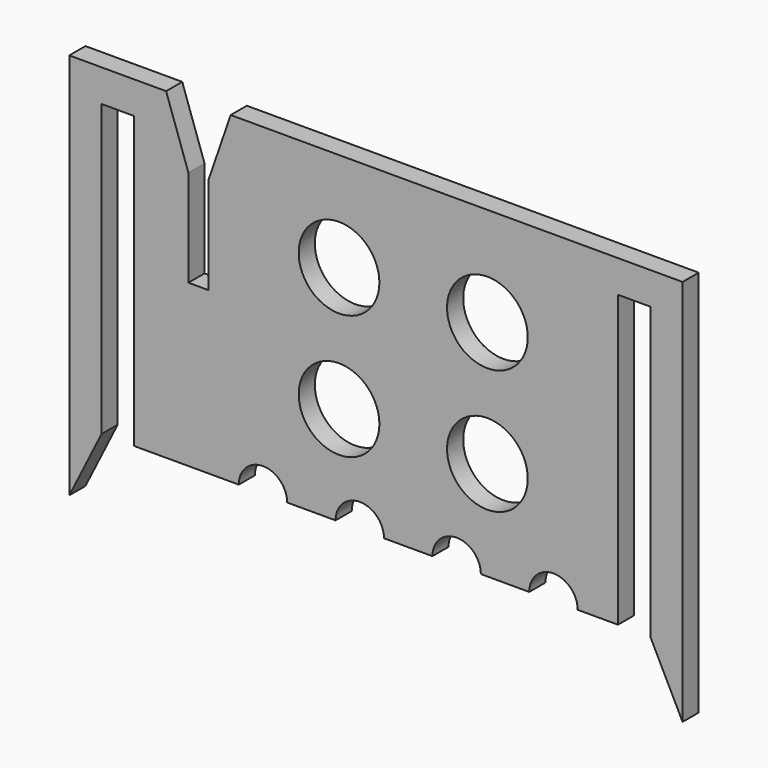
from build123d import *

# Parameters (mm, degrees)
F0_W     = 38.1
F0_H     = 25.4
F1_DEPTH = 1.5875
F3_DEPTH = 1.5875
F5_DEPTH = 1.5885
F6_R     = 3.175
F7_DEPTH = 1.5885
F8_R     = 1.905
F9_DEPTH = 25.4


with BuildPart() as f1:
    # F0 (on Front) → F1 (new body)
    with BuildSketch(Plane.XZ):
        with Locations((19.05, 12.7)):
            Rectangle(F0_W, F0_H)
    extrude(amount=F1_DEPTH)

    # F2 (on Front) → F3 (join, through all)
    with BuildSketch(Plane.XZ):
        Polygon((43.18, 25.4), (38.1, 25.4), (38.1, 22.86), (40.64, 22.86), (40.64, 0), (43.18, -5.08), align=None)
        Polygon((-2.54, 22.86), (0, 22.86), (0, 25.4), (-5.08, 25.4), (-5.08, -5.08), (-2.54, 0), align=None)
    extrude(amount=F3_DEPTH)

    # F4 (on Front) → F5 (cut, through all)
    with BuildSketch(Plane.XZ):
        Polygon((7.62, 25.4), (2.54, 25.4), (4.2926, 20.32), (4.2926, 12.7), (5.8674, 12.7), (5.8674, 20.32), align=None)
    extrude(amount=F5_DEPTH, mode=Mode.SUBTRACT)

    # F6 (on Front) → F7 (cut, through all)
    with BuildSketch(Plane.XZ):
        with Locations((16.146441, 17.598042)):
            Circle(F6_R)
        with Locations((27.820959, 17.598042)):
            Circle(F6_R)
        with Locations((16.146441, 7.801958)):
            Circle(F6_R)
        with Locations((27.820959, 7.801958)):
            Circle(F6_R)
    extrude(amount=F7_DEPTH, mode=Mode.SUBTRACT)

    # F8 (on face) → F9 (cut)
    with BuildSketch(Plane.XZ.offset(1.5875)):
        with Locations((10.16, 0)):
            Circle(F8_R)
        with Locations((17.78, 0)):
            Circle(F8_R)
        with Locations((25.4, 0)):
            Circle(F8_R)
        with Locations((33.02, 0)):
            Circle(F8_R)
    extrude(amount=-F9_DEPTH, mode=Mode.SUBTRACT)


solid = f1.part
